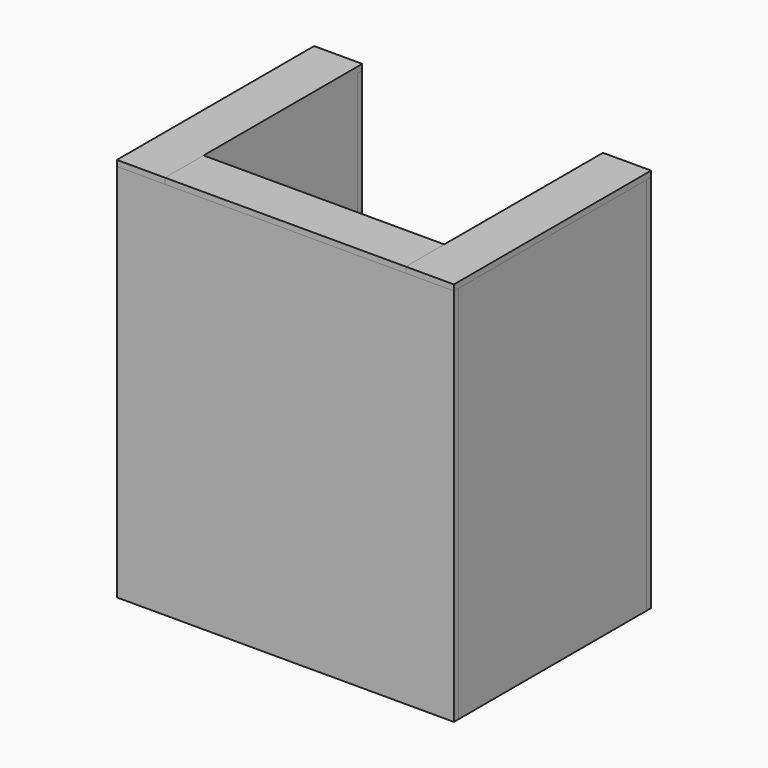
from build123d import *

# Parameters (mm, degrees)
F0_W      = 524
F0_H      = 488
F1_DEPTH  = 12
F2_W      = 500
F2_H      = 12
F3_DEPTH  = 438
F4_DEPTH  = 438
F5_DEPTH  = 438
F7_DEPTH  = 338
F8_DEPTH  = 338
F6_W      = 500
F6_H      = 12
F9_DEPTH  = 338
F10_W     = 100
F10_H     = 788
F11_DEPTH = 12
F10_W_2   = 12
F10_H_2   = 338
F12_DEPTH = 12
F13_W     = 100
F13_H     = 512
F14_DEPTH = 12
F13_H_2   = 500
F13_H_3   = 12
F15_DEPTH = 12
F16_W     = 12
F16_H     = 488
F17_DEPTH = 788
F18_W     = 700
F18_H     = 788
F19_DEPTH = 12
F20_W     = 500
F20_H     = 100
F21_DEPTH = 12


with BuildPart() as f1:
    # F0 (on Top) → F1 (new body)
    with BuildSketch(Plane.XY):
        Rectangle(F0_W, F0_H)
    extrude(amount=F1_DEPTH)


with BuildPart() as f3:
    # F2 (on face) → F3 (new body)
    with BuildSketch(Plane(origin=(0, 0, 0), x_dir=(1, 0, 0), z_dir=(0, 0, -1))):
        with Locations((0, -238)):
            Rectangle(F2_W, F2_H)
    extrude(amount=F3_DEPTH)


with BuildPart() as f4:
    # F2 (on face) → F4 (new body)
    with BuildSketch(Plane(origin=(0, 0, 0), x_dir=(1, 0, 0), z_dir=(0, 0, -1))):
        Polygon((-250, 244), (-262, 244), (-262, -244), (-250, -244), (-250, -232), align=None)
        Polygon((-250, 244), (-262, 244), (-262, -244), (-250, -244), (-250, -232), align=None)
    extrude(amount=F4_DEPTH)


with BuildPart() as f5:
    # F2 (on face) → F5 (new body)
    with BuildSketch(Plane(origin=(0, 0, 0), x_dir=(1, 0, 0), z_dir=(0, 0, -1))):
        Polygon((262, 244), (250, 244), (250, -232), (250, -244), (262, -244), align=None)
        Polygon((262, 244), (250, 244), (250, -232), (250, -244), (262, -244), align=None)
    extrude(amount=F5_DEPTH)


with BuildPart() as f7:
    # F6 (on face) → F7 (new body)
    with BuildSketch(Plane.XY.offset(12)):
        Polygon((262, -244), (262, 244), (250, 244), (250, -156), (250, -168), (250, -244), align=None)
    extrude(amount=F7_DEPTH)


with BuildPart() as f8:
    # F6 (on face) → F8 (new body)
    with BuildSketch(Plane.XY.offset(12)):
        Polygon((-250, -156), (-250, 244), (-262, 244), (-262, -244), (-250, -244), (-250, -168), align=None)
    extrude(amount=F8_DEPTH)

    # F13 (on face) → F15 (join)
    with BuildSketch(Plane.XY.offset(350)):
        with Locations((-300, -6)):
            Rectangle(F13_W, F13_H_2)
        with Locations((-300, 250)):
            Rectangle(F13_W, F13_H_3)
    extrude(amount=F15_DEPTH)


with BuildPart() as f9:
    # F6 (on face) → F9 (new body)
    with BuildSketch(Plane.XY.offset(12)):
        with Locations((0, -162)):
            Rectangle(F6_W, F6_H)
    extrude(amount=F9_DEPTH)


with BuildPart() as f11:
    # F10 (on face) → F11 (new body)
    with BuildSketch(Plane(origin=(0, 244, 0), x_dir=(-1, 0, 0), z_dir=(0, 1, 0))):
        with Locations((-300, -44)):
            Rectangle(F10_W, F10_H)
    extrude(amount=F11_DEPTH)


with BuildPart() as f12:
    # F10 (on face) → F12 (new body)
    with BuildSketch(Plane(origin=(0, 244, 0), x_dir=(-1, 0, 0), z_dir=(0, 1, 0))):
        with Locations((256, 181)):
            Rectangle(F10_W_2, F10_H_2)
        Polygon((350, 350), (262, 350), (262, 12), (250, 12), (250, -438), (350, -438), align=None)
    extrude(amount=F12_DEPTH)


with BuildPart() as f14:
    # F13 (on face) → F14 (new body)
    with BuildSketch(Plane.XY.offset(350)):
        with Locations((300, 0)):
            Rectangle(F13_W, F13_H)
    extrude(amount=F14_DEPTH)


with BuildPart() as f17:
    # F16 (on face) → F17 (new body)
    with BuildSketch(Plane.XY.offset(350)):
        with Locations((-344, 0)):
            Rectangle(F16_W, F16_H)
    extrude(amount=-F17_DEPTH)


with BuildPart() as f17b:
    # F16 (on face) → F17, piece 2 (new body)
    with BuildSketch(Plane.XY.offset(350)):
        with Locations((344, 0)):
            Rectangle(F16_W, F16_H)
    extrude(amount=-F17_DEPTH)


with BuildPart() as f19:
    # F18 (on face) → F19 (new body)
    with BuildSketch(Plane.XZ.offset(244)):
        with Locations((0, -44)):
            Rectangle(F18_W, F18_H)
    extrude(amount=F19_DEPTH)


with BuildPart() as f21:
    # F20 (on face) → F21 (new body)
    with BuildSketch(Plane.XY.offset(350)):
        with Locations((0, -206)):
            Rectangle(F20_W, F20_H)
    extrude(amount=F21_DEPTH)


solid = Compound([f1.part, f3.part, f4.part, f5.part, f7.part, f8.part, f9.part, f11.part, f12.part, f14.part, f17.part, f17b.part, f19.part, f21.part])
